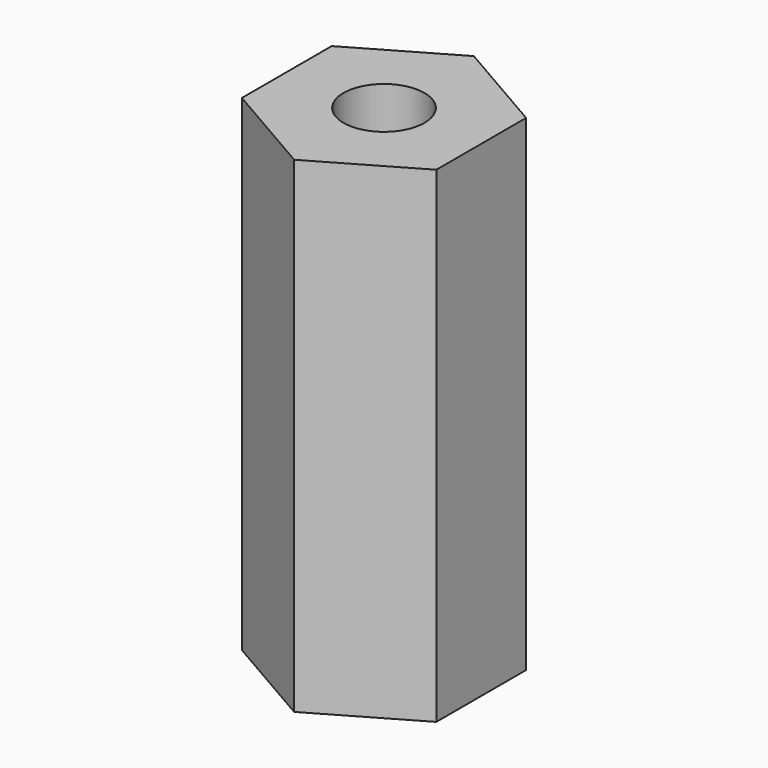
from build123d import *

# Parameters (mm, degrees)
PAD_DEPTH   = 15
SKETCH001_R = 1.25
HOLE_DEPTH  = 15.001


with BuildPart() as part:
    # Sketch → Pad (new body)
    with BuildSketch(Plane.XY):
        Polygon((-3, -1.732051), (0, -3.464102), (3, -1.732051), (3, 1.732051), (0, 3.464102), (-3, 1.732051), align=None)
    extrude(amount=PAD_DEPTH)

    # Sketch001 (on Face8 of Pad) → Hole (cut, through all)
    with BuildSketch(Plane.XY.offset(15)):
        Circle(SKETCH001_R)
    extrude(amount=-HOLE_DEPTH, mode=Mode.SUBTRACT)


solid = part.part
